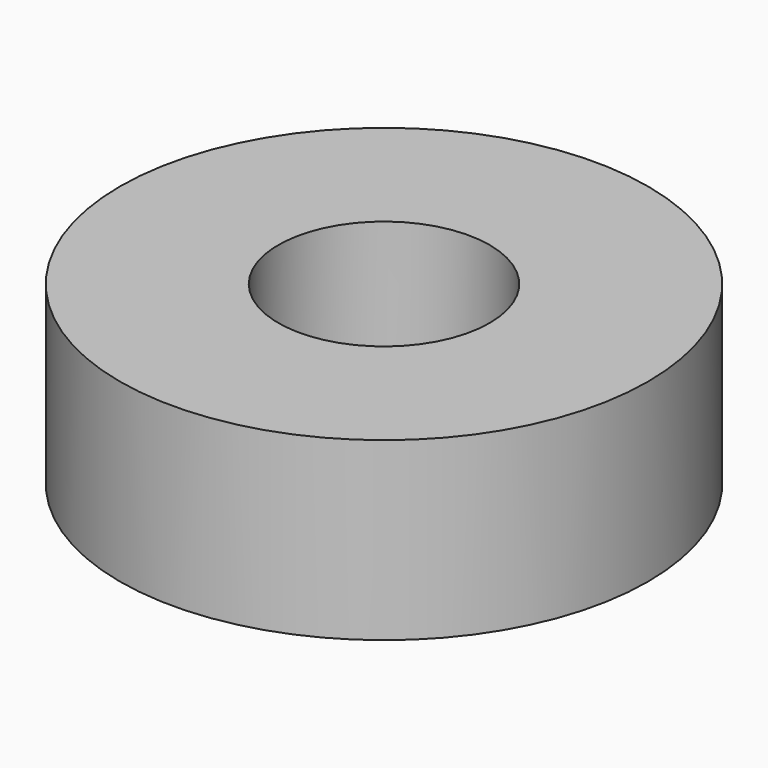
from build123d import *

# Parameters (mm, degrees)
SKETCH_R   = 7.5
SKETCH_R_2 = 3
PAD_DEPTH  = 5


with BuildPart() as part:
    # Sketch → Pad (new body)
    with BuildSketch(Plane.XY):
        Circle(SKETCH_R)
        Circle(SKETCH_R_2, mode=Mode.SUBTRACT)
    extrude(amount=PAD_DEPTH)


solid = part.part
